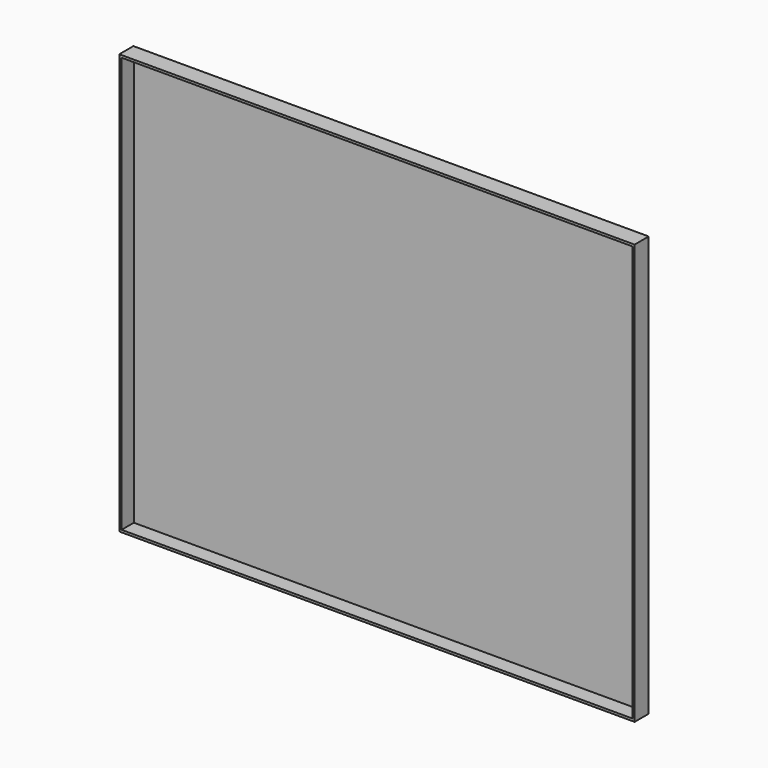
from build123d import *

# Parameters (mm, degrees)
F0_W     = 4.77774
F0_H     = 869.95
F1_DEPTH = 1066.8
F2_W     = 4.7752
F2_H     = 4.7752
F2_W_2   = 1057.2496
F2_H_2   = 860.3996
F3_DEPTH = 31.75


with BuildPart() as f1:
    # F0 (on Right) → F1 (new body)
    with BuildSketch(Plane.YZ):
        with Locations((-49.272264, 361.152822)):
            Rectangle(F0_W, F0_H)
    extrude(amount=F1_DEPTH)

    # F2 (on face) → F3 (join)
    with BuildSketch(Plane.XZ.offset(51.661134)):
        with Locations((2.3876, -71.434578)):
            Rectangle(F2_W, F2_H)
        with Locations((533.4, -71.434578)):
            Rectangle(F2_W_2, F2_H)
        with Locations((2.3876, 361.152822)):
            Rectangle(F2_W, F2_H_2)
        with Locations((1064.4124, -71.434578)):
            Rectangle(F2_W, F2_H)
        with Locations((2.3876, 793.740222)):
            Rectangle(F2_W, F2_H)
        with Locations((533.4, 793.740222)):
            Rectangle(F2_W_2, F2_H)
        with Locations((1064.4124, 361.152822)):
            Rectangle(F2_W, F2_H_2)
        with Locations((1064.4124, 793.740222)):
            Rectangle(F2_W, F2_H)
    extrude(amount=F3_DEPTH)


solid = f1.part
